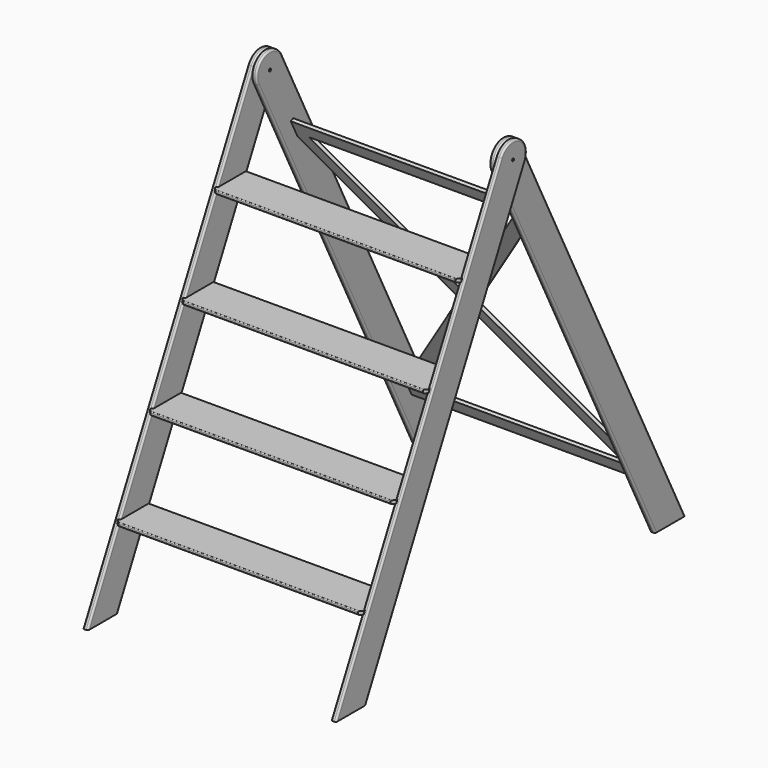
from build123d import *

# Parameters (mm, degrees)
F1_DEPTH   = 19.05
F3_DEPTH   = 6.35
F5_D       = 9.652
F6_R       = 6.35
F8_DEPTH   = 19.05
F9_R       = 6.35
F14_DEPTH  = 6.35
F16_DEPTH  = 927.1
F17_SIZE   = 12.7
F17_2_SIZE = 12.7
F17_3_SIZE = 12.7
F17_4_SIZE = 12.7
F18_R      = 3.175
F18_2_R    = 3.175
F18_3_R    = 3.175
F18_4_R    = 3.175


with BuildPart() as f1:
    # F0 (on Right) → F1 (new body)
    with BuildSketch(Plane.YZ):
        with BuildLine():
            Line((-832.9951582856, 0), (-691.0048417144, 0))
            Line((-691.0048417144, 0), (56.7961266285, 1495.6019366858))
            ThreePointArc((56.7961266285, 1495.6019366858), (28.3980633142, 1580.7961266285), (-56.7961266285, 1552.3980633142))
            Line((-56.7961266285, 1552.3980633142), (-832.9951582856, 0))
        make_face()
    extrude(amount=F1_DEPTH)

    # F2 (on face) → F3 (cut)
    with BuildSketch(Plane(origin=(0, 0, 0), x_dir=(0, -1, 0), z_dir=(-1, 0, 0))):
        Polygon((229.7451582856, 1206.5), (223.3951582856, 1219.2), (81.4048417144, 1219.2), (87.7548417144, 1206.5), align=None)
        Polygon((375.7951582856, 914.4), (233.8048417144, 914.4), (240.1548417144, 901.7), (382.1451582856, 901.7), align=None)
        Polygon((528.1951582856, 609.6), (386.2048417144, 609.6), (392.5548417144, 596.9), (534.5451582856, 596.9), align=None)
        Polygon((680.5951582856, 304.8), (538.6048417144, 304.8), (544.9548417144, 292.1), (686.9451582856, 292.1), align=None)
    extrude(amount=-F3_DEPTH, mode=Mode.SUBTRACT)

    # F5 (through all)
    with Locations(Plane(origin=(0, 0, 0), x_dir=(0, 1, 0), z_dir=(-1, 0, 0))):
        with Locations((0, -1524)):
            Hole(F5_D / 2)

    # F6
    f6_edges = [f1.edges().sort_by_distance(p)[0] for p in [
        (0, -302.770158, 1060.45),
        (19.05, -444.895642, 776.199032),
        (0, -455.170158, 755.65),
        (0, -140.095642, 1385.799032),
        (0, -160.779842, 1060.45),
        (0, -313.179842, 755.65),
        (0, -465.579842, 450.85),
        (0, -607.570158, 450.85),
        (0, -759.970158, 146.05),
        (0, -617.979842, 146.05),
    ]]
    fillet(f6_edges, radius=F6_R)


with BuildPart() as f8:
    # F7 (on face) → F8 (new body)
    with BuildSketch(Plane.YZ):
        with BuildLine():
            Line((-56.7961266285, 1495.6019366858), (0, 1382.0096834288))
            Line((0, 1382.0096834288), (691.0048417144, 0))
            Line((691.0048417144, 0), (832.9951582856, 0))
            Line((832.9951582856, 0), (56.7961266285, 1552.3980633142))
            ThreePointArc((56.7961266285, 1552.3980633142), (-28.3980633142, 1580.7961266285), (-56.7961266285, 1495.6019366858))
        make_face()
        with BuildLine():
            ThreePointArc((4.826, 1524), (3.412497326, 1520.587502674), (0, 1519.174))
            ThreePointArc((0, 1519.174), (-3.412497326, 1527.412497326), (4.826, 1524))
        make_face(mode=Mode.SUBTRACT)
    extrude(amount=-F8_DEPTH)

    # F9
    f9_edges = [f8.edges().sort_by_distance(p)[0] for p in [
        (-19.05, 444.895642, 776.199032),
        (-19.05, -28.398063, 1580.796127),
        (-19.05, 317.104358, 747.800968),
        (0, 317.104358, 747.800968),
        (0, -28.398063, 1580.796127),
        (0, 444.895642, 776.199032),
    ]]
    fillet(f9_edges, radius=F9_R)


with BuildPart() as f12_1:
    # F12: instance of F1
    add(f1.part.mirror(Plane.YZ.offset(-457.2)))


with BuildPart() as f12_2:
    # F12: instance of F8
    add(f8.part.mirror(Plane.YZ.offset(-457.2)))


with BuildPart() as f14:
    # F13 (on offset) → F14 (new body, symmetric)
    with BuildSketch(Plane(origin=(0, 609.6, 304.8), x_dir=(-1, 0, 0), z_dir=(0, 0.894427191, 0.4472135955))):
        Polygon((895.35, 1131.8776396565), (19.05, 1131.8776396565), (19.05, 1081.0776396565), (68.5864460362, 1081.0776396565), (845.8135539638, 1081.0776396565), (457.2, 540.3979124025), (488.4801960362, 496.8776396565), (895.35, 1062.9573669104), align=None)
        Polygon((68.5864460362, 1081.0776396565), (19.05, 1081.0776396565), (19.05, 1062.9573669104), (425.9198039638, 496.8776396565), (457.2, 540.3979124025), align=None)
        Polygon((457.2, 453.3573669104), (425.9198039638, 496.8776396565), (19.05, -69.2020875975), (19.05, -87.3223603435), (68.5864460362, -87.3223603435), align=None)
        Polygon((457.2, 540.3979124025), (425.9198039638, 496.8776396565), (457.2, 453.3573669104), (488.4801960362, 496.8776396565), align=None)
        Polygon((895.35, -69.2020875975), (488.4801960362, 496.8776396565), (457.2, 453.3573669104), (845.8135539638, -87.3223603435), (895.35, -87.3223603435), align=None)
        Polygon((68.5864460362, -87.3223603435), (19.05, -87.3223603435), (19.05, -138.1223603435), (895.35, -138.1223603435), (895.35, -87.3223603435), (845.8135539638, -87.3223603435), align=None)
    extrude(amount=F14_DEPTH, both=True)


with BuildPart() as f16:
    # F15 (on face) → F16 (new body)
    with BuildSketch(Plane(origin=(6.35, 0, 0), x_dir=(0, -1, 0), z_dir=(-1, 0, 0))):
        Polygon((544.9548417144, 292.1), (552.0543575429, 292.1), (697.3548417144, 292.1), (697.3548417144, 304.8), (544.9548417144, 304.8), align=None)
    extrude(amount=F16_DEPTH)

    # F17
    f17_edges = [f16.edges().sort_by_distance(p)[0] for p in [
        (6.35, -697.354842, 298.45),
        (-920.75, -697.354842, 298.45),
    ]]
    chamfer(f17_edges, length=F17_SIZE)

    # F18#4
    f18_4_edges = [f16.edges().sort_by_distance(p)[0] for p in [
        (-457.2, -544.954842, 304.8),
        (-457.2, -544.954842, 292.1),
        (-457.2, -697.354842, 304.8),
        (-457.2, -697.354842, 292.1),
    ]]
    fillet(f18_4_edges, radius=F18_4_R)


with BuildPart() as f16b:
    # F15 (on face) → F16, piece 2 (new body)
    with BuildSketch(Plane(origin=(6.35, 0, 0), x_dir=(0, -1, 0), z_dir=(-1, 0, 0))):
        Polygon((392.5548417144, 609.6), (392.5548417144, 596.9), (399.6543575429, 596.9), (544.9548417144, 596.9), (544.9548417144, 609.6), align=None)
    extrude(amount=F16_DEPTH)

    # F17#2
    f17_2_edges = [f16b.edges().sort_by_distance(p)[0] for p in [
        (6.35, -544.954842, 603.25),
        (-920.75, -544.954842, 603.25),
    ]]
    chamfer(f17_2_edges, length=F17_2_SIZE)

    # F18#3
    f18_3_edges = [f16b.edges().sort_by_distance(p)[0] for p in [
        (-457.2, -544.954842, 609.6),
        (-457.2, -544.954842, 596.9),
        (-457.2, -392.554842, 609.6),
        (-457.2, -392.554842, 596.9),
    ]]
    fillet(f18_3_edges, radius=F18_3_R)


with BuildPart() as f16c:
    # F15 (on face) → F16, piece 3 (new body)
    with BuildSketch(Plane(origin=(6.35, 0, 0), x_dir=(0, -1, 0), z_dir=(-1, 0, 0))):
        Polygon((240.1548417144, 914.4), (240.1548417144, 901.7), (247.2543575429, 901.7), (392.5548417144, 901.7), (392.5548417144, 914.4), align=None)
    extrude(amount=F16_DEPTH)

    # F17#3
    f17_3_edges = [f16c.edges().sort_by_distance(p)[0] for p in [
        (6.35, -392.554842, 908.05),
        (-920.75, -392.554842, 908.05),
    ]]
    chamfer(f17_3_edges, length=F17_3_SIZE)

    # F18#2
    f18_2_edges = [f16c.edges().sort_by_distance(p)[0] for p in [
        (-457.2, -392.554842, 914.4),
        (-457.2, -392.554842, 901.7),
        (-457.2, -240.154842, 914.4),
        (-457.2, -240.154842, 901.7),
    ]]
    fillet(f18_2_edges, radius=F18_2_R)


with BuildPart() as f16d:
    # F15 (on face) → F16, piece 4 (new body)
    with BuildSketch(Plane(origin=(6.35, 0, 0), x_dir=(0, -1, 0), z_dir=(-1, 0, 0))):
        Polygon((87.7548417144, 1219.2), (87.7548417144, 1206.5), (94.8543575429, 1206.5), (240.1548417144, 1206.5), (240.1548417144, 1219.2), align=None)
    extrude(amount=F16_DEPTH)

    # F17#4
    f17_4_edges = [f16d.edges().sort_by_distance(p)[0] for p in [
        (6.35, -240.154842, 1212.85),
        (-920.75, -240.154842, 1212.85),
    ]]
    chamfer(f17_4_edges, length=F17_4_SIZE)

    # F18
    f18_edges = [f16d.edges().sort_by_distance(p)[0] for p in [
        (-457.2, -240.154842, 1219.2),
        (-457.2, -240.154842, 1206.5),
        (-457.2, -87.754842, 1219.2),
        (-457.2, -87.754842, 1206.5),
    ]]
    fillet(f18_edges, radius=F18_R)


solid = Compound([f1.part, f8.part, f12_1.part, f12_2.part, f14.part, f16.part, f16b.part, f16c.part, f16d.part])
